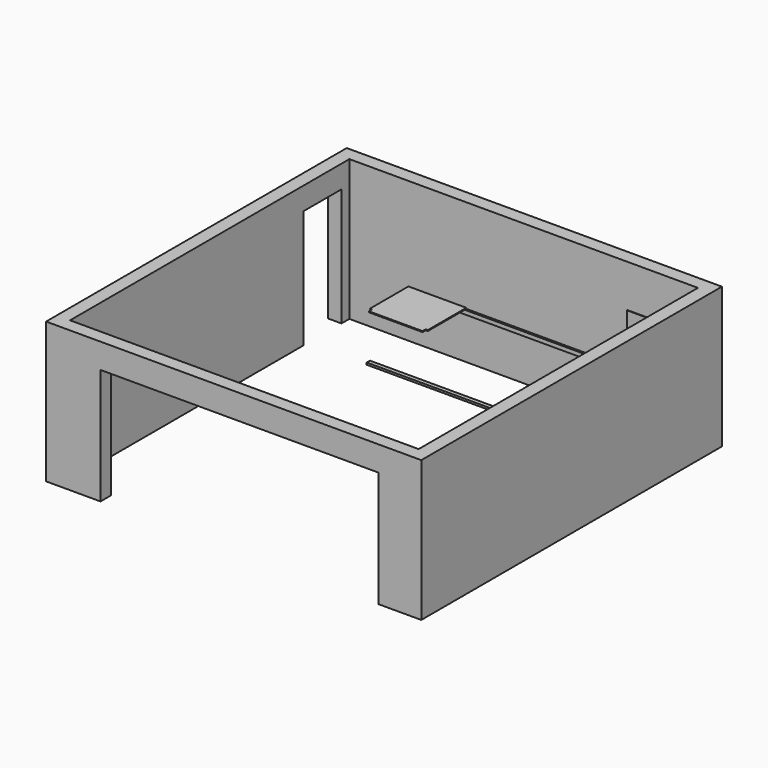
from build123d import *

# Parameters (mm, degrees)
F0_W      = 6480
F0_H      = 6490
F0_W_2    = 6020
F0_H_2    = 6030
F1_DEPTH  = 2430
F2_W      = 4800
F2_H      = 2000
F3_DEPTH  = 3245.001
F4_W      = 820
F4_H      = 2040
F5_DEPTH  = 3240.001
F6_W      = 5000
F6_H      = 70
F7_DEPTH  = 35
F8_W      = 795
F8_H      = 70
F9_DEPTH  = 35
F10_W     = 70
F10_H     = 2360
F11_DEPTH = 35
F12_W     = 5000
F12_H     = 70
F13_DEPTH = 35
F14_W     = 500
F14_H     = 2290
F15_DEPTH = 10
F17_DEPTH = 16
F19_DEPTH = 16
F20_W     = 35
F20_H     = 70
F21_DEPTH = 1596.7


with BuildPart() as f1:
    # F0 (on Top) → F1 (new body)
    with BuildSketch(Plane.XY):
        Rectangle(F0_W, F0_H)
        Rectangle(F0_W_2, F0_H_2, mode=Mode.SUBTRACT)
    extrude(amount=F1_DEPTH)

    # F2 (on Front) → F3 (cut, through all)
    with BuildSketch(Plane.XZ):
        with Locations((100, 1000)):
            Rectangle(F2_W, F2_H)
    extrude(amount=F3_DEPTH, mode=Mode.SUBTRACT)

    # F4 (on Right) → F5 (cut, through all)
    with BuildSketch(Plane.YZ):
        with Locations((2435, 1020)):
            Rectangle(F4_W, F4_H)
    extrude(amount=-F5_DEPTH, mode=Mode.SUBTRACT)


with BuildPart() as f7:
    # F6 (on face) → F7 (new body)
    with BuildSketch(Plane.XZ.offset(-3015)):
        with Locations((510, 775)):
            Rectangle(F6_W, F6_H)
    extrude(amount=F7_DEPTH)


with BuildPart() as f9:
    # F8 (on face) → F9 (new body)
    with BuildSketch(Plane(origin=(3010, 0, 0), x_dir=(0, -1, 0), z_dir=(-1, 0, 0))):
        with Locations((-2582.5, 775)):
            Rectangle(F8_W, F8_H)
    extrude(amount=F9_DEPTH)


with BuildPart() as f11:
    # F10 (on face) → F11 (new body)
    with BuildSketch(Plane(origin=(3010, 0, 0), x_dir=(0, -1, 0), z_dir=(-1, 0, 0))):
        with Locations((-2150, 1215)):
            Rectangle(F10_W, F10_H)
    extrude(amount=F11_DEPTH)


with BuildPart() as f13:
    # F12 (on Top) → F13 (new body)
    with BuildSketch(Plane.XY):
        with Locations((510, 2150)):
            Rectangle(F12_W, F12_H)
    extrude(amount=F13_DEPTH)


with BuildPart() as f15:
    # F14 (on face) → F15 (new body)
    with BuildSketch(Plane.XZ.offset(-2115)):
        with Locations((2760, 1151)):
            Rectangle(F14_W, F14_H)
    extrude(amount=F15_DEPTH)


with BuildPart() as f17:
    # F16 (on face) → F17 (new body)
    with BuildSketch(Plane.XY.offset(810)):
        Polygon((3010, 2185), (3010, 3015), (1343.3, 3015), (1343.3, 2185), (1378.3, 2185), (1378.3, 2115), (2975, 2115), (2975, 2185), align=None)
    extrude(amount=F17_DEPTH)


with BuildPart() as f19:
    # F18 (on face) → F19 (new body)
    with BuildSketch(Plane.XY.offset(810)):
        Polygon((-990, 3015), (-1990, 3015), (-1990, 2185), (-1955, 2185), (-1955, 2115), (-1025, 2115), (-1025, 2185), (-990, 2185), align=None)
    extrude(amount=F19_DEPTH)


with BuildPart() as f21:
    # F20 (on face) → F21 (new body)
    with BuildSketch(Plane(origin=(2975, 0, 0), x_dir=(0, -1, 0), z_dir=(-1, 0, 0))):
        with Locations((-2132.5, 768.249478)):
            Rectangle(F20_W, F20_H)
    extrude(amount=F21_DEPTH)


solid = Compound([f1.part, f7.part, f9.part, f11.part, f13.part, f15.part, f17.part, f19.part, f21.part])
